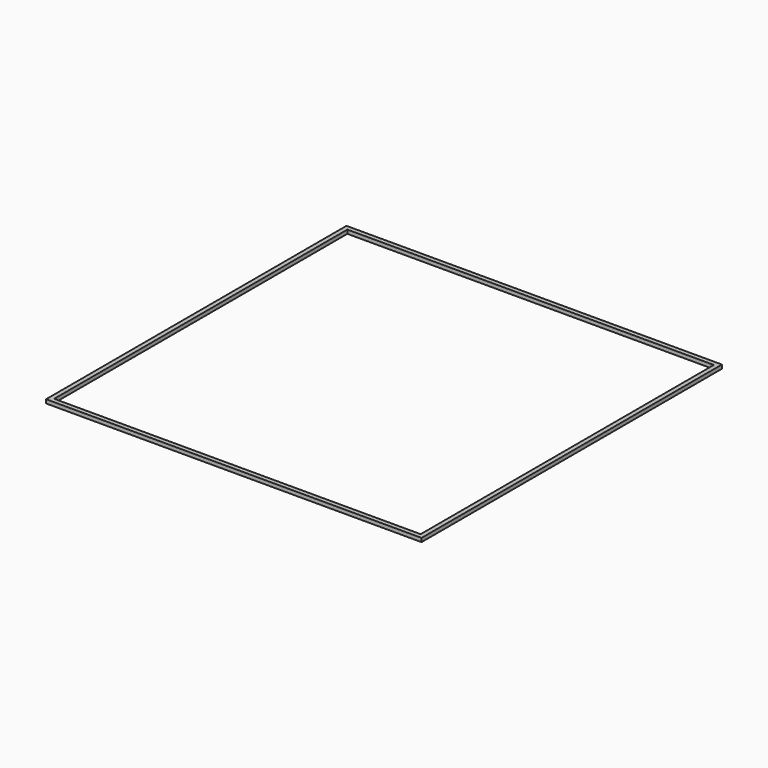
from build123d import *

# Parameters (mm, degrees)
BOX001_W     = 97.6
BOX001_H     = 97.6
BOX001_DEPTH = 1
BOX_W        = 100
BOX_H        = 100
BOX_DEPTH    = 1


with BuildPart() as interior:
    # Box001 → Box001 (new body)
    with BuildSketch(Plane(origin=(51.2, 51.2, 0), x_dir=(1, 0, 0), z_dir=(0, 0, 1))):
        with Locations((48.8, 48.8)):
            Rectangle(BOX001_W, BOX001_H)
    extrude(amount=BOX001_DEPTH)


with BuildPart() as cubo:
    # Box → Box (new body)
    with BuildSketch(Plane(origin=(50, 50, 0), x_dir=(1, 0, 0), z_dir=(0, 0, 1))):
        with Locations((50, 50)):
            Rectangle(BOX_W, BOX_H)
    extrude(amount=BOX_DEPTH)

    # Cut: cut Interior
    add(interior.part, mode=Mode.SUBTRACT)


solid = cubo.part
